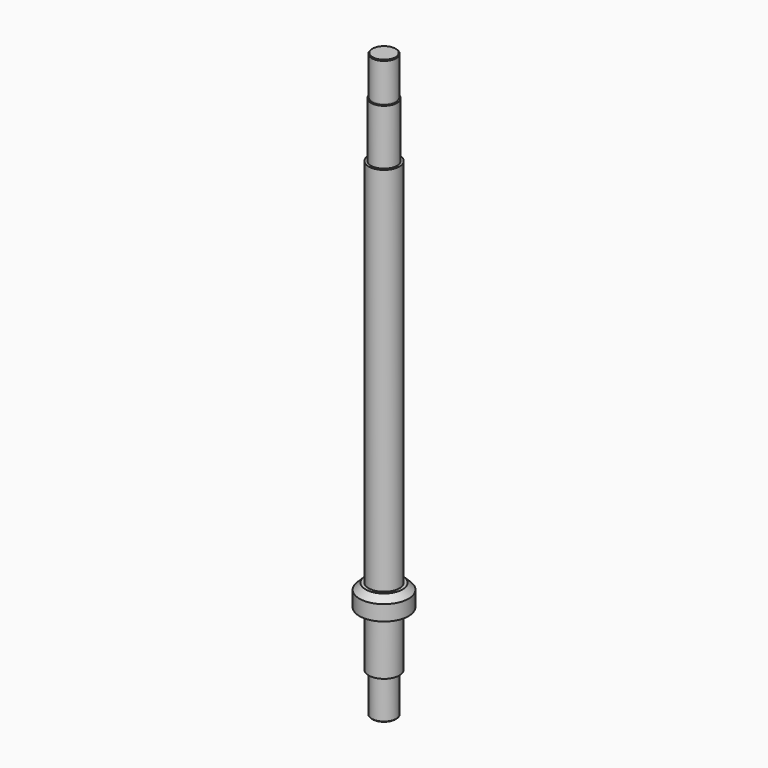
from build123d import *

# Parameters (mm, degrees)
F0_R      = 31.75
F1_DEPTH  = 114.3
F2_R      = 23.876
F3_DEPTH  = 3.175
F4_R      = 25.4
F5_DEPTH  = 79.375
F6_SIZE   = 1.6002
F7_R      = 50.8
F8_DEPTH  = 44.45
F9_SIZE   = 12.7
F10_R     = 31.75
F11_DEPTH = 768.35
F12_R     = 26.9875
F13_DEPTH = 114.3
F14_R     = 23.876
F15_DEPTH = 3.175
F16_R     = 25.4
F17_DEPTH = 79.375
F18_SIZE  = 1.6002


with BuildPart() as f1:
    # F0 (on Top) → F1 (new body)
    with BuildSketch(Plane.XY):
        Circle(F0_R)
    extrude(amount=-F1_DEPTH)

    # F2 (on face) → F3 (join)
    with BuildSketch(Plane(origin=(0, 0, -114.3), x_dir=(1, 0, 0), z_dir=(0, 0, -1))):
        Circle(F2_R)
    extrude(amount=F3_DEPTH)

    # F4 (on face) → F5 (join)
    with BuildSketch(Plane(origin=(0, 0, -117.475), x_dir=(1, 0, 0), z_dir=(0, 0, -1))):
        Circle(F4_R)
    extrude(amount=F5_DEPTH)

    # F6
    f6_edges = [f1.edges().sort_by_distance(p)[0] for p in [
        (-25.4, 0, -196.85),
    ]]
    chamfer(f6_edges, length=F6_SIZE)

    # F7 (on face) → F8 (join)
    with BuildSketch(Plane.XY):
        Circle(F7_R)
    extrude(amount=F8_DEPTH)

    # F9
    f9_edges = [f1.edges().sort_by_distance(p)[0] for p in [
        (-50.8, 0, 44.45),
    ]]
    chamfer(f9_edges, length=F9_SIZE)

    # F10 (on face) → F11 (join)
    with BuildSketch(Plane.XY.offset(44.45)):
        Circle(F10_R)
    extrude(amount=F11_DEPTH)

    # F12 (on face) → F13 (join)
    with BuildSketch(Plane.XY.offset(812.8)):
        Circle(F12_R)
    extrude(amount=F13_DEPTH)

    # F14 (on face) → F15 (join)
    with BuildSketch(Plane.XY.offset(927.1)):
        Circle(F14_R)
    extrude(amount=F15_DEPTH)

    # F16 (on face) → F17 (join)
    with BuildSketch(Plane.XY.offset(930.275)):
        Circle(F16_R)
    extrude(amount=F17_DEPTH)

    # F18
    f18_edges = [f1.edges().sort_by_distance(p)[0] for p in [
        (-25.4, 0, 1009.65),
    ]]
    chamfer(f18_edges, length=F18_SIZE)


solid = f1.part
